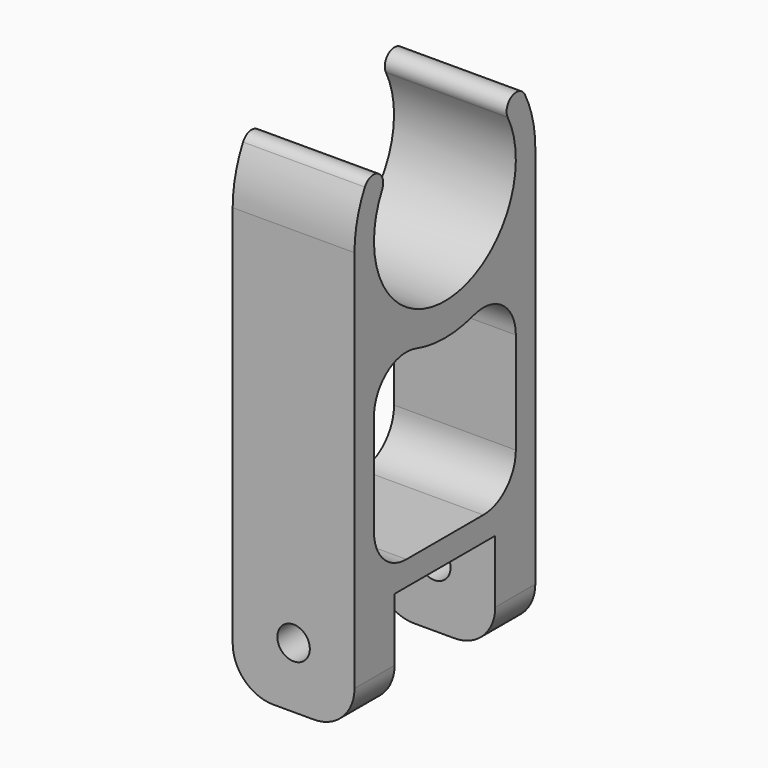
from build123d import *

# Parameters (mm, degrees)
F1_DEPTH = 7.5
F3_DEPTH = 15
F4_R     = 2
F5_DEPTH = 27.837
F6_R     = 5


with BuildPart() as f1:
    # F0 (on Right) → F1 (new body, symmetric)
    with BuildSketch(Plane.YZ):
        with BuildLine():
            ThreePointArc((12.3245305001, 6.4665811641), (10.2993352496, 7.0979164137), (9.668, 5.0727211632))
            ThreePointArc((9.668, 5.0727211632), (0, -10.918), (-9.668, 5.0727211632))
            ThreePointArc((-9.668, 5.0727211632), (-10.2993352496, 7.0979164137), (-12.3245305001, 6.4665811641))
            ThreePointArc((-12.3245305001, 6.4665811641), (0, -13.918), (12.3245305001, 6.4665811641))
        make_face()
    extrude(amount=F1_DEPTH, both=True)

    # F2 (on face) → F3 (join, through all)
    with BuildSketch(Plane.YZ.offset(7.5)):
        with BuildLine():
            ThreePointArc((13.918, 0), (0, -13.918), (-13.918, 0))
            Line((-13.918, 0), (-13.918, -52.25))
            Line((-13.918, -52.25), (-7.75, -52.25))
            Line((-7.75, -52.25), (-7.75, -39.5))
            Line((-7.75, -39.5), (7.75, -39.5))
            Line((7.75, -39.5), (7.75, -52.25))
            Line((7.75, -52.25), (13.918, -52.25))
            Line((13.918, -52.25), (13.918, 0))
        make_face()
        with BuildLine():
            Line((-10.918, -36.5), (-10.918, -10.1658251018))
            ThreePointArc((-10.918, -10.1658251018), (0, -14.918), (10.918, -10.1658251018))
            Line((10.918, -10.1658251018), (10.918, -36.5))
            Line((10.918, -36.5), (-10.918, -36.5))
        make_face(mode=Mode.SUBTRACT)
    extrude(amount=-F3_DEPTH)

    # F4 (on face) → F5 (cut, through all)
    with BuildSketch(Plane(origin=(0, 13.918, 0), x_dir=(-1, 0, 0), z_dir=(0, 1, 0))):
        with Locations((0, -44.75)):
            Circle(F4_R)
    extrude(amount=-F5_DEPTH, mode=Mode.SUBTRACT)

    # F6
    f6_edges = [f1.edges().sort_by_distance(p)[0] for p in [
        (7.5, -10.834, -52.25),
        (-7.5, -10.834, -52.25),
        (7.5, 10.834, -52.25),
        (-7.5, 10.834, -52.25),
        (0, -10.918, -10.165825),
        (0, 10.918, -10.165825),
        (0, -10.918, -36.5),
        (0, 10.918, -36.5),
    ]]
    fillet(f6_edges, radius=F6_R)


solid = f1.part
